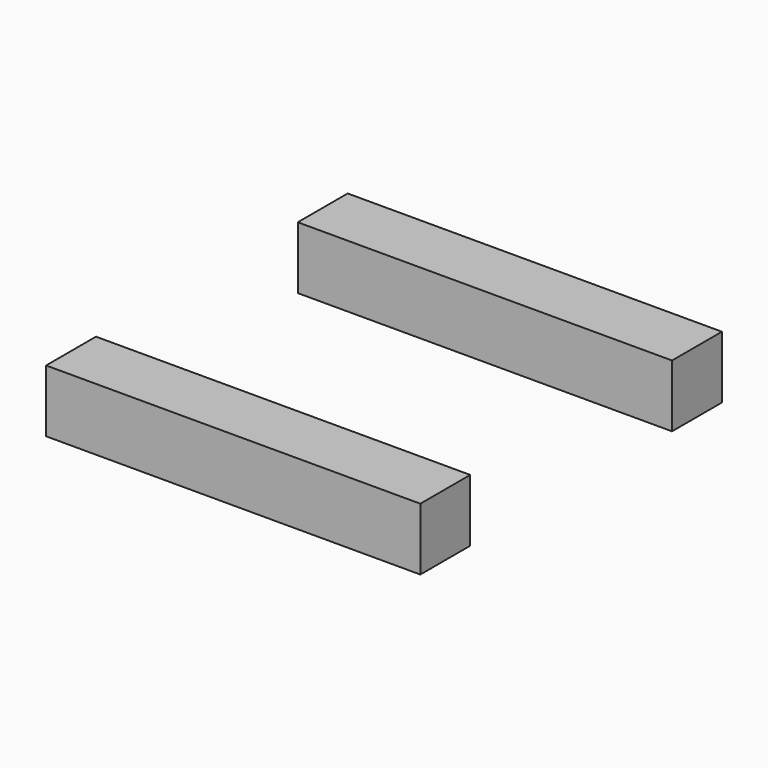
from build123d import *

# Parameters (mm, degrees)
F0_W     = 124.7719364792
F0_H     = 25.4
F0_W_2   = 27.6280635208
F1_DEPTH = 12.7
F0_W_3   = 0.8912334468
F0_W_4   = 123.8807030324


with BuildPart() as f1:
    # F0 (on Top) → F1 (new body, symmetric)
    with BuildSketch(Plane.XY):
        with Locations((13.5219467348, 63.5121193758)):
            Rectangle(F0_W, F0_H)
        with Locations((-62.6780532652, 63.5121193758)):
            Rectangle(F0_W_2, F0_H)
    extrude(amount=F1_DEPTH, both=True)


with BuildPart() as f1b:
    # F0 (on Top) → F1, piece 2 (new body, symmetric)
    with BuildSketch(Plane.XY):
        with Locations((-76.937701749, -63.4878806242)):
            Rectangle(F0_W_3, F0_H)
        with Locations((13.0763300113, -63.4878806242)):
            Rectangle(F0_W_4, F0_H)
        with Locations((-62.6780532652, -63.4878806242)):
            Rectangle(F0_W_2, F0_H)
    extrude(amount=F1_DEPTH, both=True)


solid = Compound([f1.part, f1b.part])
